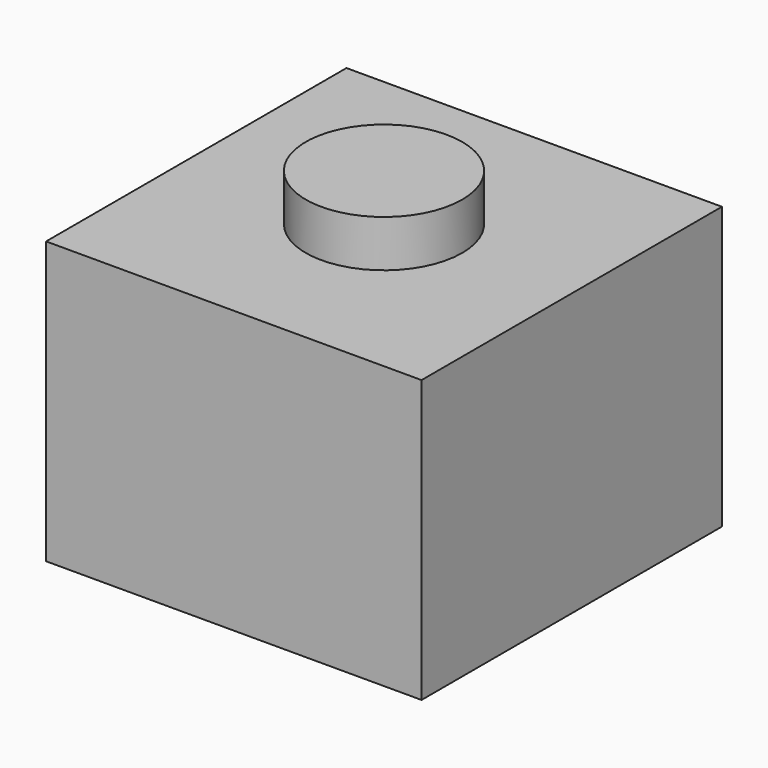
from build123d import *

# Parameters (mm, degrees)
F0_W     = 609.6
F0_H     = 609.6
F1_DEPTH = 457.2
F2_R     = 127
F3_DEPTH = 76.2


with BuildPart() as f1:
    # F0 (on Top) → F1 (new body)
    with BuildSketch(Plane.XY):
        Rectangle(F0_W, F0_H)
    extrude(amount=-F1_DEPTH)

    # F2 (on face) → F3 (join)
    with BuildSketch(Plane.XY):
        Circle(F2_R)
    extrude(amount=F3_DEPTH)


solid = f1.part
